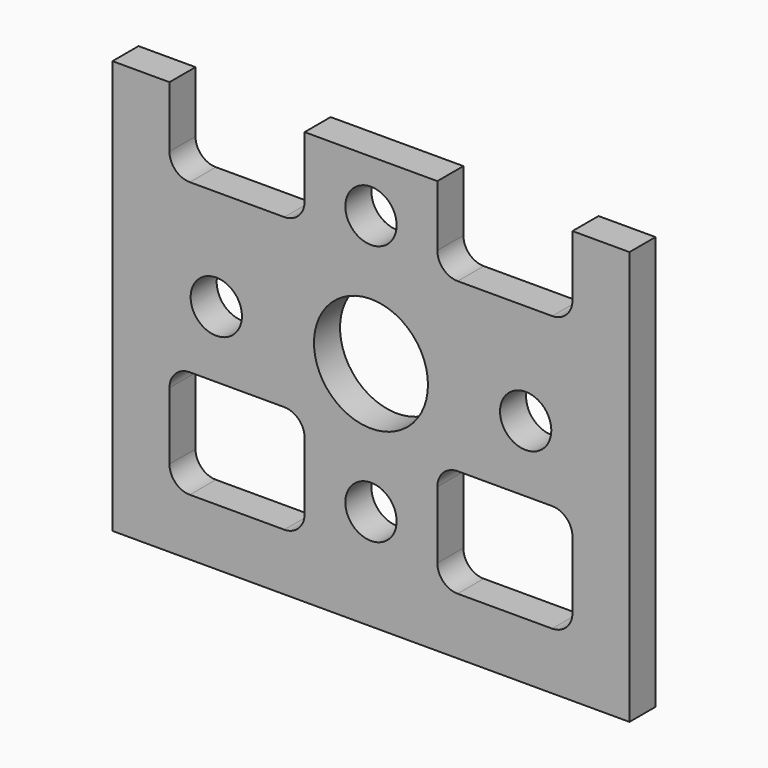
from build123d import *

# Parameters (mm, degrees)
F1_W     = 31.75
F1_H     = 25.4
F2_DEPTH = 2
F3_R     = 3.5
F3_R_2   = 1.575
F5_DEPTH = 2.001


with BuildPart() as f2:
    # F1 (on Front) → F2 (new body)
    with BuildSketch(Plane.XZ):
        Rectangle(F1_W, F1_H)
    extrude(amount=-F2_DEPTH)

    # F3 (on face) + F4 (on face) → F5 (cut, through all)
    with BuildSketch(Plane.XZ):
        with Locations((0, 1.5)):
            Circle(F3_R)
        with Locations((-9.5, 1.5)):
            Circle(F3_R_2)
        with Locations((9.5, 1.5)):
            Circle(F3_R_2)
        with Locations((0, 9.5)):
            Circle(F3_R_2)
        with Locations((0, -6.5)):
            Circle(F3_R_2)
    with BuildSketch(Plane.XZ):
        with BuildLine():
            Line((-4.075, -7.95), (-4.075, -3.825))
            ThreePointArc((-4.075, -3.825), (-4.4411165235, -2.9411165235), (-5.325, -2.575))
            Line((-5.325, -2.575), (-11.125, -2.575))
            ThreePointArc((-11.125, -2.575), (-12.0088834765, -2.9411165235), (-12.375, -3.825))
            Line((-12.375, -3.825), (-12.375, -7.95))
            ThreePointArc((-12.375, -7.95), (-12.0088834765, -8.8338834765), (-11.125, -9.2))
            Line((-11.125, -9.2), (-5.325, -9.2))
            ThreePointArc((-5.325, -9.2), (-4.4411165235, -8.8338834765), (-4.075, -7.95))
        make_face()
        with BuildLine():
            ThreePointArc((5.325, -2.575), (4.4411165235, -2.9411165235), (4.075, -3.825))
            Line((4.075, -3.825), (4.075, -7.95))
            ThreePointArc((4.075, -7.95), (4.4411165235, -8.8338834765), (5.325, -9.2))
            Line((5.325, -9.2), (11.125, -9.2))
            ThreePointArc((11.125, -9.2), (12.0088834765, -8.8338834765), (12.375, -7.95))
            Line((12.375, -7.95), (12.375, -3.825))
            ThreePointArc((12.375, -3.825), (12.0088834765, -2.9411165235), (11.125, -2.575))
            Line((11.125, -2.575), (5.325, -2.575))
        make_face()
        with BuildLine():
            Line((-4.075, 12.7), (-12.375, 12.7))
            Line((-12.375, 12.7), (-12.375, 8.95))
            ThreePointArc((-12.375, 8.95), (-12.0088834765, 8.0661165235), (-11.125, 7.7))
            Line((-11.125, 7.7), (-5.325, 7.7))
            ThreePointArc((-5.325, 7.7), (-4.4411165235, 8.0661165235), (-4.075, 8.95))
            Line((-4.075, 8.95), (-4.075, 12.7))
        make_face()
        with BuildLine():
            Line((4.075, 12.7), (4.075, 8.95))
            ThreePointArc((4.075, 8.95), (4.4411165235, 8.0661165235), (5.325, 7.7))
            Line((5.325, 7.7), (11.125, 7.7))
            ThreePointArc((11.125, 7.7), (12.0088834765, 8.0661165235), (12.375, 8.95))
            Line((12.375, 8.95), (12.375, 12.7))
            Line((12.375, 12.7), (4.075, 12.7))
        make_face()
    extrude(amount=-F5_DEPTH, mode=Mode.SUBTRACT)


solid = f2.part
